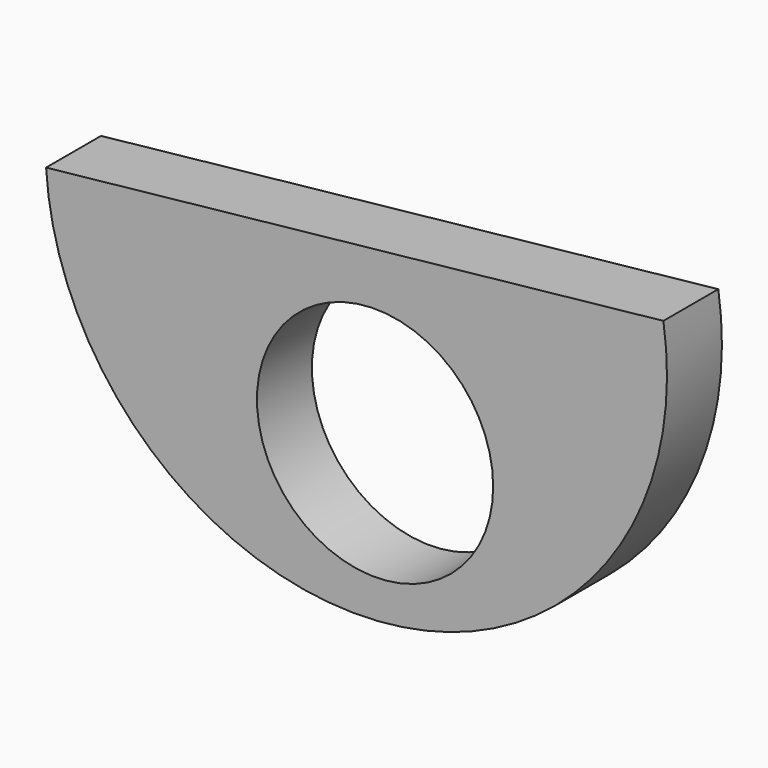
from build123d import *

# Parameters (mm, degrees)
F0_R     = 10.922
F1_DEPTH = 6.35


with BuildPart() as f1:
    # F0 (on Front) → F1 (new body)
    with BuildSketch(Plane.XZ):
        with BuildLine():
            Line((-5.382704, 50.823309), (-62.468723, 44.738905))
            ThreePointArc((-62.468723, 44.738905), (-30.739604, 17.887908), (-5.382704, 50.823309))
        make_face()
        with Locations((-32.046706, 32.212189)):
            Circle(F0_R, mode=Mode.SUBTRACT)
    extrude(amount=F1_DEPTH)


solid = f1.part
